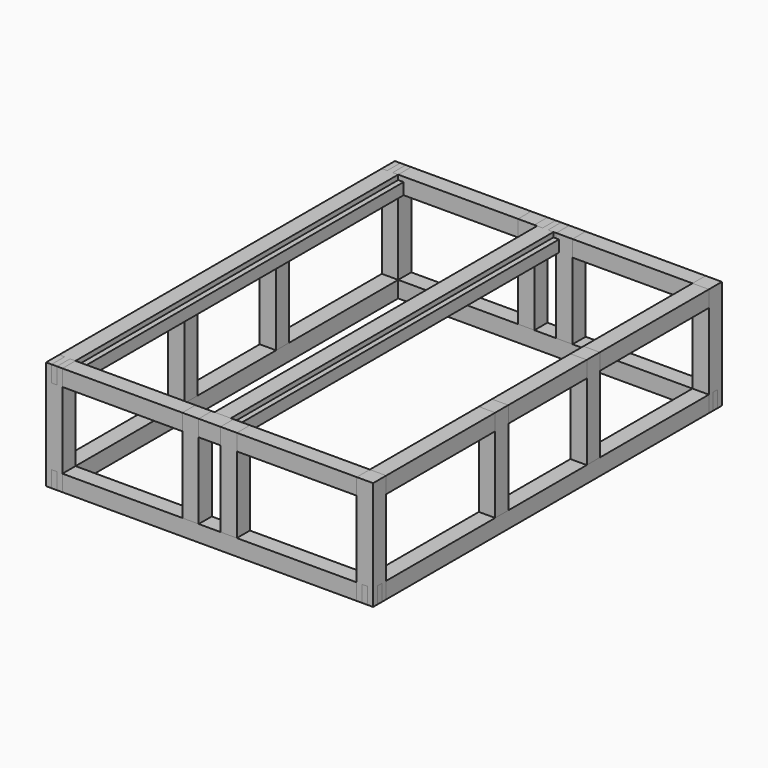
from build123d import *

# Parameters (mm, degrees)
F2_DEPTH  = 76.2
F4_DEPTH  = 76.2
F5_W      = 25.4
F5_H      = 76.2
F6_DEPTH  = 76.2
F7_W      = 25.4
F7_H      = 1879.6
F8_DEPTH  = 53.975
F9_W      = 76.2
F9_H      = 76.2
F10_DEPTH = 508
F12_W     = 76.2
F12_H     = 508
F13_DEPTH = 76.2
F14_W     = 76.2
F14_H     = 508
F15_DEPTH = 76.2


with BuildPart() as f2:
    # F1 (on Top) → F2 (new body)
    with BuildSketch(Plane.XY):
        Polygon((685.8, 1016), (-685.8, 1016), (-685.8, 990.6), (-762, 990.6), (-762, 965.2), (-685.8, 965.2), (-685.8, 939.8), (685.8, 939.8), (685.8, 965.2), (762, 965.2), (762, 990.6), (685.8, 990.6), align=None)
    extrude(amount=F2_DEPTH)


with BuildPart() as f4:
    # F3 (on Top) → F4 (new body)
    with BuildSketch(Plane.XY):
        Polygon((762, -939.8), (762, 939.8), (736.6, 939.8), (736.6, 1016), (711.2, 1016), (711.2, 939.8), (685.8, 939.8), (685.8, -939.8), (711.2, -939.8), (711.2, -1016), (736.6, -1016), (736.6, -939.8), align=None)
    extrude(amount=F4_DEPTH)


with BuildPart() as f6:
    # F5 (on Top) → F6 (new body)
    with BuildSketch(Plane.XY):
        with Locations((0, 977.9)):
            Rectangle(F5_W, F5_H)
        Polygon((12.7, 939.8), (-12.7, 939.8), (-38.1, 939.8), (-38.1, -939.8), (-12.7, -939.8), (-12.7, -1016), (12.7, -1016), (12.7, -939.8), (38.1, -939.8), (38.1, 939.8), align=None)
    extrude(amount=F6_DEPTH)


with BuildPart() as f8:
    # F7 (on Top) → F8 (new body)
    with BuildSketch(Plane.XY):
        with Locations((673.1, 0)):
            Rectangle(F7_W, F7_H)
        with Locations((50.8, 0)):
            Rectangle(F7_W, F7_H)
    extrude(amount=F8_DEPTH)


with BuildPart() as f10:
    # F9 (on face) → F10 (new body)
    with BuildSketch(Plane.XY.offset(76.2)):
        with Locations((723.9, 977.9)):
            Rectangle(F9_W, F9_H)
    extrude(amount=-F10_DEPTH)


with BuildPart() as f13:
    # F12 (on face) → F13 (new body)
    with BuildSketch(Plane(origin=(0, 1016, 0), x_dir=(-1, 0, 0), z_dir=(0, 1, 0))):
        with Locations((-88.9, -177.8)):
            Rectangle(F12_W, F12_H)
    extrude(amount=-F13_DEPTH)


with BuildPart() as f15:
    # F14 (on face) → F15 (new body)
    with BuildSketch(Plane.YZ.offset(762)):
        with Locations((266.7, -177.8)):
            Rectangle(F14_W, F14_H)
    extrude(amount=-F15_DEPTH)


with BuildPart() as f16_1:
    # F16: instance of F2
    add(f2.part.mirror(Plane.XZ))


with BuildPart() as f16_2:
    # F16: instance of F13
    add(f13.part.mirror(Plane.XZ))


with BuildPart() as f16_3:
    # F16: instance of F10
    add(f10.part.mirror(Plane.XZ))


with BuildPart() as f16_4:
    # F16: instance of F15
    add(f15.part.mirror(Plane.XZ))


with BuildPart() as f17_1:
    # F17: instance of F16_3
    add(f16_3.part.mirror(Plane.YZ))


with BuildPart() as f17_2:
    # F17: instance of F16_2
    add(f16_2.part.mirror(Plane.YZ))


with BuildPart() as f17_3:
    # F17: instance of F16_4
    add(f16_4.part.mirror(Plane.YZ))


with BuildPart() as f17_4:
    # F17: instance of F15
    add(f15.part.mirror(Plane.YZ))


with BuildPart() as f17_5:
    # F17: instance of F10
    add(f10.part.mirror(Plane.YZ))


with BuildPart() as f17_6:
    # F17: instance of F13
    add(f13.part.mirror(Plane.YZ))


with BuildPart() as f17_7:
    # F17: instance of F8
    add(f8.part.mirror(Plane.YZ))


with BuildPart() as f17_8:
    # F17: instance of F4
    add(f4.part.mirror(Plane.YZ))


with BuildPart() as f18_1:
    # F18: instance of F16_1
    add(f16_1.part.mirror(Plane.XY.offset(-177.8)))


with BuildPart() as f18_2:
    # F18: instance of F4
    add(f4.part.mirror(Plane.XY.offset(-177.8)))


with BuildPart() as f18_3:
    # F18: instance of F2
    add(f2.part.mirror(Plane.XY.offset(-177.8)))


with BuildPart() as f18_4:
    # F18: instance of F17_8
    add(f17_8.part.mirror(Plane.XY.offset(-177.8)))


solid = Compound([f2.part, f4.part, f6.part, f8.part, f10.part, f13.part, f15.part, f16_1.part, f16_2.part, f16_3.part, f16_4.part, f17_1.part, f17_2.part, f17_3.part, f17_4.part, f17_5.part, f17_6.part, f17_7.part, f17_8.part, f18_1.part, f18_2.part, f18_3.part, f18_4.part])
